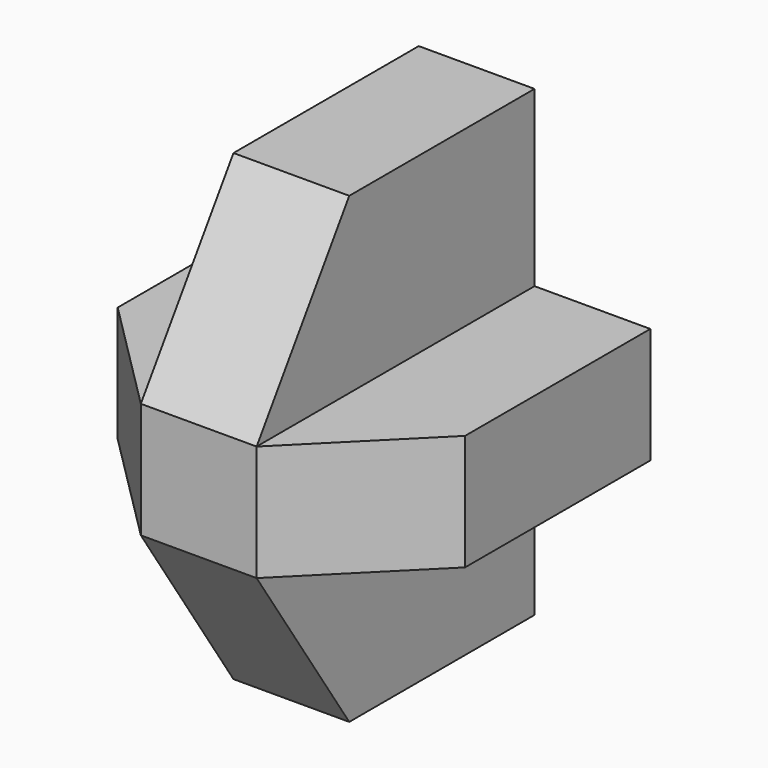
from build123d import *

# Parameters (mm, degrees)
F0_W      = 12.7
F0_H      = 12.7
F1_DEPTH  = 38.1
F0_H_2    = 19.05
F2_DEPTH  = 38.1
F4_DEPTH  = 12.7
F6_DEPTH  = 12.7
F8_DEPTH  = 12.7
F10_DEPTH = 12.7


with BuildPart() as f1:
    # F0 (on Front) → F1 (new body)
    with BuildSketch(Plane.XZ):
        with Locations((-6.35, 6.35)):
            Rectangle(F0_W, F0_H)
    extrude(amount=F1_DEPTH)

    # F0 (on Front) → F2 (join)
    with BuildSketch(Plane.XZ):
        with Locations((6.35, 6.35)):
            Rectangle(F0_W, F0_H)
        with Locations((-6.35, 6.35)):
            Rectangle(F0_W, F0_H)
        with Locations((6.35, -9.525)):
            Rectangle(F0_W, F0_H_2)
        with Locations((19.05, 6.35)):
            Rectangle(F0_W, F0_H)
        with Locations((6.35, 22.225)):
            Rectangle(F0_W, F0_H_2)
    extrude(amount=F2_DEPTH)

    # F3 (on face) → F4 (cut)
    with BuildSketch(Plane.XY.offset(12.7)):
        Polygon((0, -38.1), (-12.7, -25.4), (-12.7, -38.1), align=None)
    extrude(amount=-F4_DEPTH, mode=Mode.SUBTRACT)

    # F5 (on face) → F6 (cut)
    with BuildSketch(Plane.XY.offset(12.7)):
        Polygon((25.4, -25.4), (12.7, -38.1), (25.4, -38.1), align=None)
    extrude(amount=-F6_DEPTH, mode=Mode.SUBTRACT)

    # F7 (on face) → F8 (cut)
    with BuildSketch(Plane(origin=(0, 0, 0), x_dir=(0, -1, 0), z_dir=(-1, 0, 0))):
        Polygon((38.1, 31.75), (25.4, 31.75), (38.1, 12.7), align=None)
    extrude(amount=-F8_DEPTH, mode=Mode.SUBTRACT)

    # F9 (on face) → F10 (cut)
    with BuildSketch(Plane(origin=(0, 0, 0), x_dir=(0, -1, 0), z_dir=(-1, 0, 0))):
        Polygon((38.1, -19.05), (38.1, 0), (25.4, -19.05), align=None)
    extrude(amount=-F10_DEPTH, mode=Mode.SUBTRACT)


solid = f1.part
